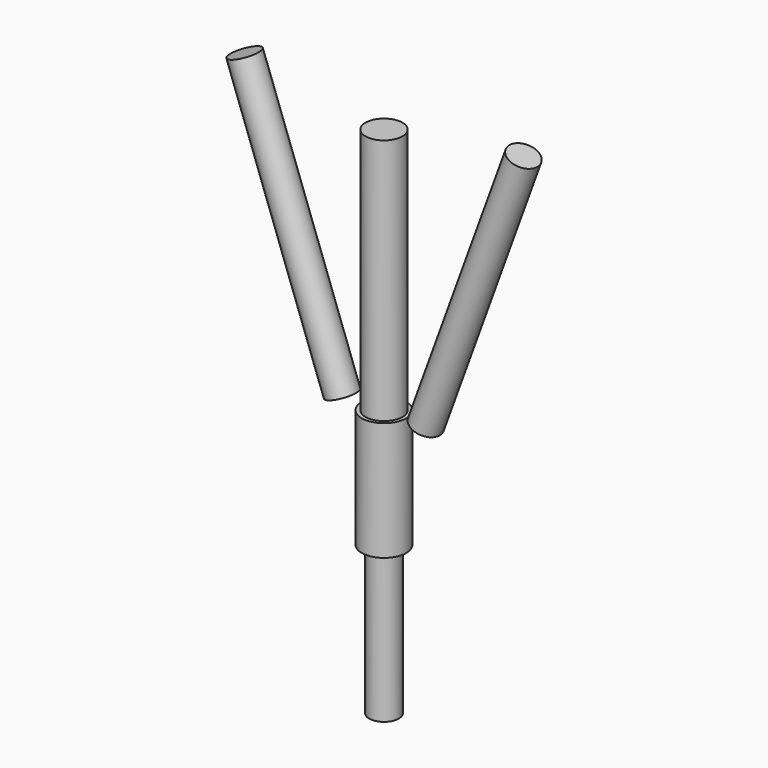
from build123d import *

# Parameters (mm, degrees)
F0_R     = 75
F1_DEPTH = 1000
F0_R_2   = 90
F2_DEPTH = 480
F5_R     = 60
F6_DEPTH = 1155
F8_R     = 60
F9_DEPTH = 600


with BuildPart() as f1:
    # F0 (on Top) → F1 (new body)
    with BuildSketch(Plane.XY):
        Circle(F0_R)
    extrude(amount=F1_DEPTH)


with BuildPart() as f2:
    # F0 (on Top) → F2 (new body)
    with BuildSketch(Plane.XY):
        Circle(F0_R_2)
        Circle(F0_R, mode=Mode.SUBTRACT)
        Circle(F0_R)
    extrude(amount=-F2_DEPTH)


with BuildPart() as f6:
    # F5 (on face) → F6 (new body)
    with BuildSketch(Plane(origin=(-21.056, 0, 57.850885), x_dir=(0.939693, 0, 0.34202), z_dir=(0.34202, 0, -0.939693))):
        with Locations((-157.849923, 0)):
            Circle(F5_R)
    extrude(amount=-F6_DEPTH)


with BuildPart() as f7_1:
    # F7: instance of F6
    add(f6.part.mirror(Plane.YZ))


with BuildPart() as f9:
    # F8 (on face) → F9 (new body)
    with BuildSketch(Plane(origin=(0, 0, -480), x_dir=(1, 0, 0), z_dir=(0, 0, -1))):
        Circle(F8_R)
    extrude(amount=F9_DEPTH)


solid = Compound([f1.part, f2.part, f6.part, f7_1.part, f9.part])
